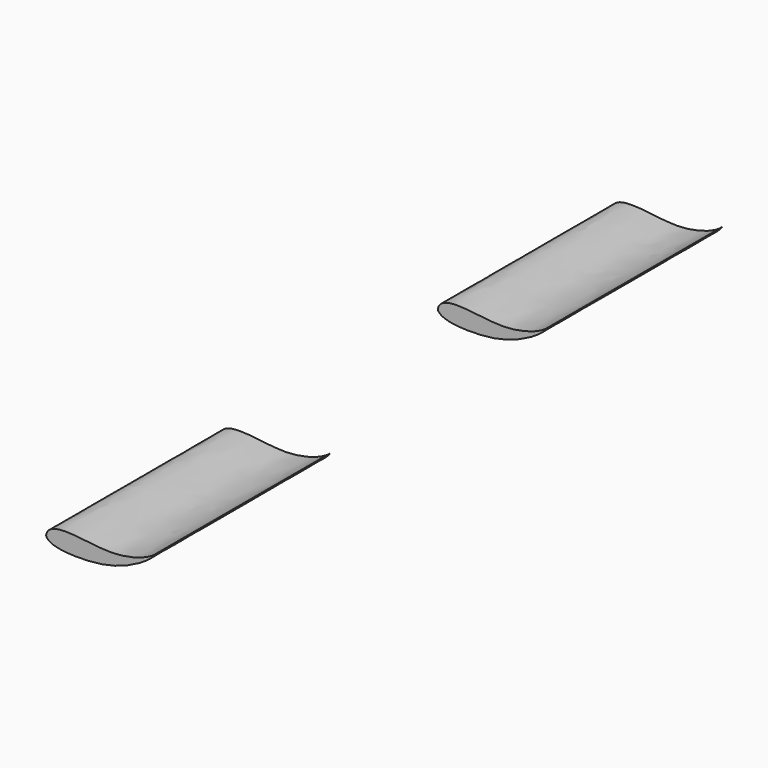
from build123d import *

# Parameters (mm, degrees)
F2_DEPTH = 394


with BuildPart() as f2:
    # F1 (on offset) → F2 (new body)
    with BuildSketch(Plane.XZ.offset(246)):
        with BuildLine():
            add(Edge.make_bspline(
                [(-1187.9107952118, 182.246774435), (-1186.1790946832, 200.0576209252), (-1132.2861822147, 202.9109195652), (-1063.8108061256, 186.6391468162), (-1002.5429725647, 205.556884408), (-989.0943169594, 218.1084901094)],
                knots=[0, 0, 0, 0, 0.2877687758, 0.6517106139, 1, 1, 1, 1], degree=3))
            add(Edge.make_bspline(
                [(-1187.9107952118, 182.246774435), (-1183.4090733988, 168.9671440019), (-1115.8296709769, 163.0532489302), (-1046.7329678016, 175.3044025516), (-997.3876476288, 205.1086127758), (-989.0943169594, 218.1084901094)],
                knots=[0, 0, 0, 0, 0.3206701864, 0.6800347671, 1, 1, 1, 1], degree=3))
        make_face()
    extrude(amount=F2_DEPTH)


with BuildPart() as f3_1:
    # F3: instance of F2
    add(f2.part.mirror(Plane.XZ))


solid = Compound([f2.part, f3_1.part])
